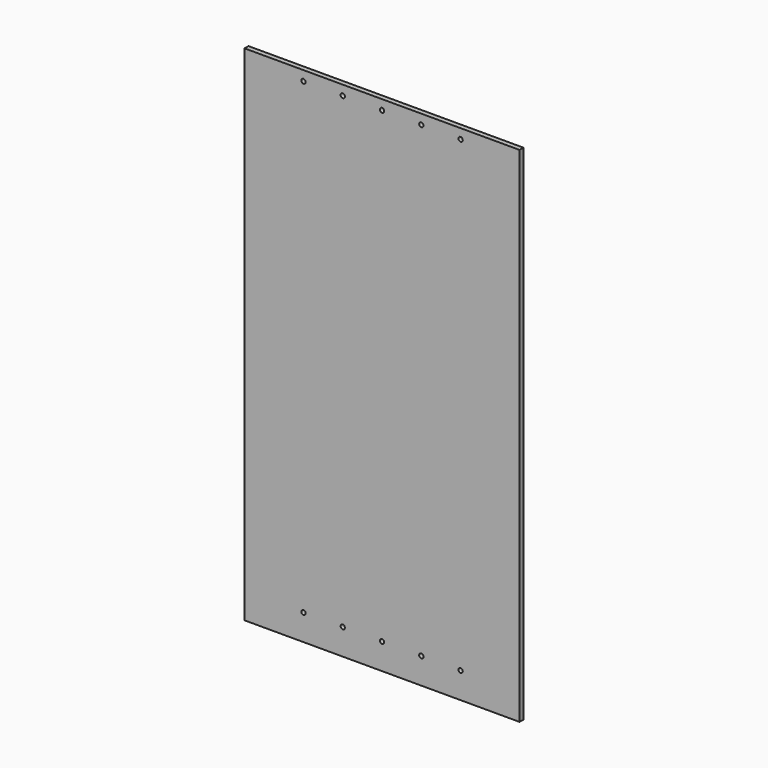
from build123d import *

# Parameters (mm, degrees)
F0_R     = 1.397
F1_DEPTH = 3.175


with BuildPart() as f1:
    # F0 (on Front) → F1 (new body)
    with BuildSketch(Plane.XZ):
        with BuildLine():
            ThreePointArc((52.197, 156.464), (50.8, 157.861), (49.403, 156.464))
            ThreePointArc((49.403, 156.464), (50.8, 155.067), (52.197, 156.464))
        make_face()
        with BuildLine():
            ThreePointArc((52.197, -145.923), (50.8, -144.526), (49.403, -145.923))
            ThreePointArc((49.403, -145.923), (50.8, -147.32), (52.197, -145.923))
        make_face()
        Polygon((88.9, -162.814), (88.9, 162.814), (0, 162.814), (-88.9, 162.814), (-88.9, -162.814), (0, -162.814), align=None)
        with Locations((-50.8, -145.923)):
            Circle(F0_R, mode=Mode.SUBTRACT)
        with Locations((-25.4, -145.923)):
            Circle(F0_R, mode=Mode.SUBTRACT)
        with BuildLine():
            ThreePointArc((1.397, -145.923), (0.987828, -146.910828), (0, -147.32))
            ThreePointArc((0, -147.32), (-0.987828, -144.935172), (1.397, -145.923))
        make_face(mode=Mode.SUBTRACT)
        with BuildLine():
            ThreePointArc((26.797, -145.923), (25.4, -147.32), (24.003, -145.923))
            ThreePointArc((24.003, -145.923), (25.4, -144.526), (26.797, -145.923))
        make_face(mode=Mode.SUBTRACT)
        with BuildLine():
            ThreePointArc((52.197, -145.923), (50.8, -147.32), (49.403, -145.923))
            ThreePointArc((49.403, -145.923), (50.8, -144.526), (52.197, -145.923))
        make_face(mode=Mode.SUBTRACT)
        with Locations((-50.8, 156.464)):
            Circle(F0_R, mode=Mode.SUBTRACT)
        with Locations((-25.4, 156.464)):
            Circle(F0_R, mode=Mode.SUBTRACT)
        with BuildLine():
            ThreePointArc((1.397, 156.464), (-0.987828, 155.476172), (0, 157.861))
            ThreePointArc((0, 157.861), (0.987828, 157.451828), (1.397, 156.464))
        make_face(mode=Mode.SUBTRACT)
        with BuildLine():
            ThreePointArc((26.797, 156.464), (25.4, 155.067), (24.003, 156.464))
            ThreePointArc((24.003, 156.464), (25.4, 157.861), (26.797, 156.464))
        make_face(mode=Mode.SUBTRACT)
        with BuildLine():
            ThreePointArc((52.197, 156.464), (50.8, 155.067), (49.403, 156.464))
            ThreePointArc((49.403, 156.464), (50.8, 157.861), (52.197, 156.464))
        make_face(mode=Mode.SUBTRACT)
    extrude(amount=F1_DEPTH)


solid = f1.part
